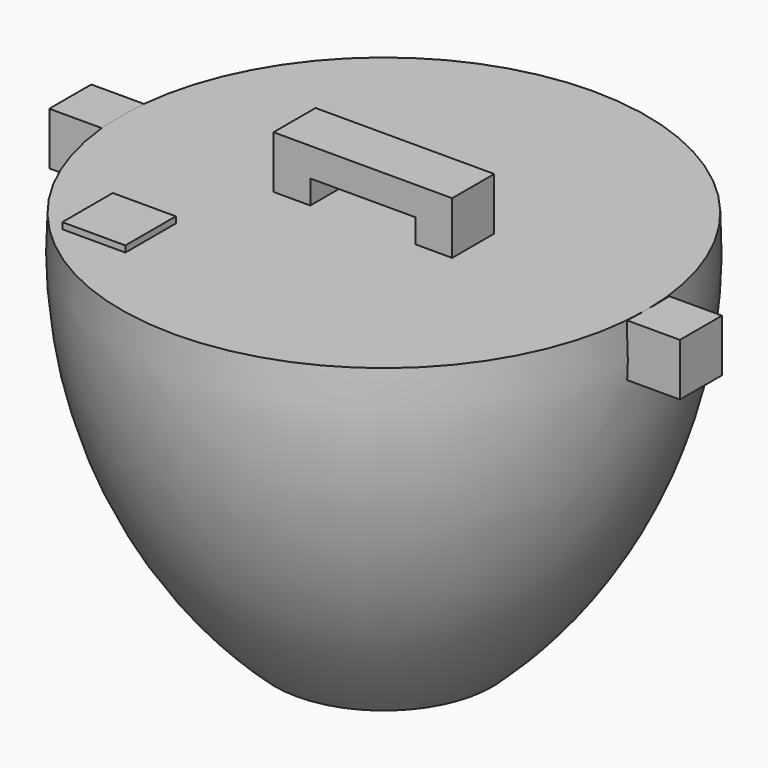
from build123d import *

# Parameters (mm, degrees)
F2_W      = 43.18
F2_H      = 12.7
F3_DEPTH  = 12.7
F5_DEPTH  = 25.4
F6_W      = 15.24
F6_H      = 15.24
F7_DEPTH  = 1.524
F10_DEPTH = 12.7
F11_DEPTH = 12.7


with BuildPart() as f1:
    # F0 (on Right) → F1 (revolve)
    with BuildSketch(Plane.YZ):
        with BuildLine():
            Line((0, -51.321191), (0, 40.903755))
            Line((0, 40.903755), (-63.5, 40.903755))
            ThreePointArc((-63.5, 40.903755), (-55.494811, -9.466448), (-26.349985, -51.321191))
            Line((-26.349985, -51.321191), (0, -51.321191))
        make_face()
    revolve(axis=Axis((0, 0, -5.208718), (0, 0, -1)))


with BuildPart() as f3:
    # F2 (on face) → F3 (new body)
    with BuildSketch(Plane.XY.offset(40.903755)):
        Rectangle(F2_W, F2_H)
    extrude(amount=F3_DEPTH)

    # F4 (on face) → F5 (cut)
    with BuildSketch(Plane.XZ.offset(6.35)):
        Polygon((-12.7, 40.903755), (0, 40.903755), (12.7, 40.903755), (12.7, 46.664163), (-12.7, 46.664163), align=None)
    extrude(amount=-F5_DEPTH, mode=Mode.SUBTRACT)


with BuildPart() as f7:
    # F6 (on face) → F7 (new body)
    with BuildSketch(Plane.XY.offset(40.903755)):
        with Locations((-35.56, -35.56)):
            Rectangle(F6_W, F6_H)
    extrude(amount=F7_DEPTH)


with BuildPart() as f10:
    # F8 (on face) → F10 (new body)
    with BuildSketch(Plane.XY.offset(40.903755)):
        with BuildLine():
            Line((-75.893349, 6.466974), (-75.893349, 0.116974))
            Line((-75.893349, 0.116974), (-75.893349, -6.233026))
            Line((-75.893349, -6.233026), (-63.193349, -6.233026))
            ThreePointArc((-63.193349, -6.233026), (-63.37619, 0.117334), (-63.169837, 6.466974))
            Line((-63.169837, 6.466974), (-75.893349, 6.466974))
        make_face()
    extrude(amount=-F10_DEPTH)


with BuildPart() as f11:
    # F9 (on face) → F11 (new body)
    with BuildSketch(Plane.XY.offset(40.903755)):
        with BuildLine():
            Line((76.080086, -5.664869), (76.080086, 0.685131))
            Line((76.080086, 0.685131), (76.080086, 7.035131))
            Line((76.080086, 7.035131), (63.380086, 7.035131))
            ThreePointArc((63.380086, 7.035131), (63.477788, 0.684929), (63.356573, -5.664869))
            Line((63.356573, -5.664869), (76.080086, -5.664869))
        make_face()
    extrude(amount=-F11_DEPTH)


solid = Compound([f1.part, f3.part, f7.part, f10.part, f11.part])
